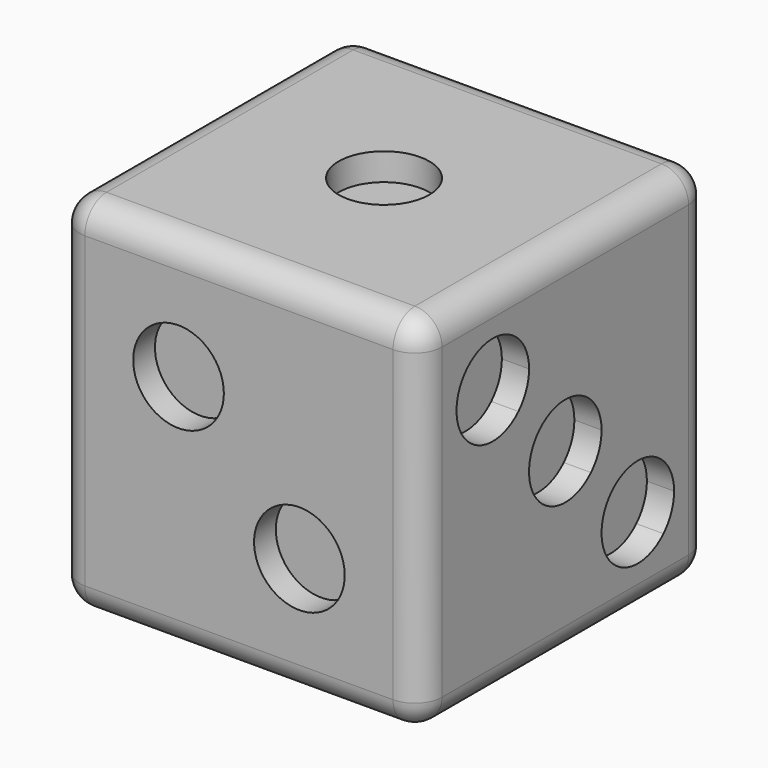
from build123d import *

# Parameters (mm, degrees)
F1_W      = 20
F1_H      = 20
F2_DEPTH  = 20
F3_R      = 2.5
F9_DEPTH  = 1.5
F10_DEPTH = 1.5
F11_DEPTH = 1.5
F12_DEPTH = 1.5
F13_DEPTH = 1.5
F14_DEPTH = 1.5
F15_R     = 1.5


with BuildPart() as f2:
    # F1 (on Top) → F2 (new body)
    with BuildSketch(Plane.XY):
        Rectangle(F1_W, F1_H)
    extrude(amount=F2_DEPTH)

    # F3 (on face) → F9 (cut)
    with BuildSketch(Plane.XY.offset(20)):
        Circle(F3_R)
    extrude(amount=-F9_DEPTH, mode=Mode.SUBTRACT)

    # F6 (on face) → F10 (cut)
    with BuildSketch(Plane.XZ.offset(10)):
        with BuildLine():
            ThreePointArc((-0.8333333333, 13.3333333333), (-2.3766247524, 15.6430321646), (-5.1011002863, 15.1011002863))
            Line((-5.1011002863, 15.1011002863), (-3.3333333333, 13.3333333333))
            Line((-3.3333333333, 13.3333333333), (-1.5655663804, 11.5655663804))
            ThreePointArc((-1.5655663804, 11.5655663804), (-1.0236345021, 12.3766247524), (-0.8333333333, 13.3333333333))
        make_face()
        with BuildLine():
            Line((-3.3333333333, 13.3333333333), (-5.1011002863, 15.1011002863))
            ThreePointArc((-5.1011002863, 15.1011002863), (-5.1011002863, 11.5655663804), (-1.5655663804, 11.5655663804))
            Line((-1.5655663804, 11.5655663804), (-3.3333333333, 13.3333333333))
        make_face()
        with BuildLine():
            Line((3.3333333333, 6.6666666667), (1.5655663804, 8.4344336196))
            ThreePointArc((1.5655663804, 8.4344336196), (1.5655663804, 4.8988997137), (5.1011002863, 4.8988997137))
            Line((5.1011002863, 4.8988997137), (3.3333333333, 6.6666666667))
        make_face()
        with BuildLine():
            ThreePointArc((5.8333333333, 6.6666666667), (4.2900419142, 8.9763654979), (1.5655663804, 8.4344336196))
            Line((1.5655663804, 8.4344336196), (3.3333333333, 6.6666666667))
            Line((3.3333333333, 6.6666666667), (5.1011002863, 4.8988997137))
            ThreePointArc((5.1011002863, 4.8988997137), (5.6430321646, 5.7099580858), (5.8333333333, 6.6666666667))
        make_face()
    extrude(amount=-F10_DEPTH, mode=Mode.SUBTRACT)

    # F8 (on face) → F11 (cut)
    with BuildSketch(Plane.YZ.offset(10)):
        with BuildLine():
            ThreePointArc((-2.5, 15), (-4.0432914191, 17.3096988313), (-6.767766953, 16.767766953))
            Line((-6.767766953, 16.767766953), (-5, 15))
            Line((-5, 15), (-3.232233047, 13.232233047))
            ThreePointArc((-3.232233047, 13.232233047), (-2.6903011687, 14.0432914191), (-2.5, 15))
        make_face()
        with BuildLine():
            Line((-5, 15), (-6.767766953, 16.767766953))
            ThreePointArc((-6.767766953, 16.767766953), (-6.767766953, 13.232233047), (-3.232233047, 13.232233047))
            Line((-3.232233047, 13.232233047), (-5, 15))
        make_face()
        with BuildLine():
            Line((0, 10), (-1.767766953, 11.767766953))
            ThreePointArc((-1.767766953, 11.767766953), (-1.767766953, 8.232233047), (1.767766953, 8.232233047))
            Line((1.767766953, 8.232233047), (0, 10))
        make_face()
        with BuildLine():
            ThreePointArc((2.5, 10), (0.9567085809, 12.3096988313), (-1.767766953, 11.767766953))
            Line((-1.767766953, 11.767766953), (0, 10))
            Line((0, 10), (1.767766953, 8.232233047))
            ThreePointArc((1.767766953, 8.232233047), (2.3096988313, 9.0432914191), (2.5, 10))
        make_face()
        with BuildLine():
            Line((5, 5), (6.767766953, 3.232233047))
            ThreePointArc((6.767766953, 3.232233047), (7.3096988313, 4.0432914191), (7.5, 5))
            ThreePointArc((7.5, 5), (5.9567085809, 7.3096988313), (3.232233047, 6.767766953))
            Line((3.232233047, 6.767766953), (5, 5))
        make_face()
        with BuildLine():
            ThreePointArc((3.232233047, 6.767766953), (3.232233047, 3.232233047), (6.767766953, 3.232233047))
            Line((6.767766953, 3.232233047), (5, 5))
            Line((5, 5), (3.232233047, 6.767766953))
        make_face()
    extrude(amount=-F11_DEPTH, mode=Mode.SUBTRACT)

    # F7 (on face) → F12 (cut)
    with BuildSketch(Plane(origin=(-10, 0, 0), x_dir=(0, -1, 0), z_dir=(-1, 0, 0))):
        with BuildLine():
            ThreePointArc((3, 4.5), (4.5432914191, 2.1903011687), (7.267766953, 2.732233047))
            Line((7.267766953, 2.732233047), (5.5, 4.5))
            Line((5.5, 4.5), (3, 4.5))
        make_face()
        with BuildLine():
            ThreePointArc((3.732233047, 6.267766953), (3.1903011687, 5.4567085809), (3, 4.5))
            Line((3, 4.5), (5.5, 4.5))
            Line((5.5, 4.5), (3.732233047, 6.267766953))
        make_face()
        with BuildLine():
            Line((3.732233047, 6.267766953), (5.5, 4.5))
            Line((5.5, 4.5), (5.5, 7))
            ThreePointArc((5.5, 7), (4.5432914191, 6.8096988313), (3.732233047, 6.267766953))
        make_face()
        with BuildLine():
            Line((5.5, 4.5), (7.267766953, 2.732233047))
            ThreePointArc((7.267766953, 2.732233047), (7.8096988313, 3.5432914191), (8, 4.5))
            ThreePointArc((8, 4.5), (7.267766953, 6.267766953), (5.5, 7))
            Line((5.5, 7), (5.5, 4.5))
        make_face()
        with BuildLine():
            ThreePointArc((-5.5, 7), (-7.8096988313, 5.4567085809), (-7.267766953, 2.732233047))
            Line((-7.267766953, 2.732233047), (-5.5, 4.5))
            Line((-5.5, 4.5), (-5.5, 7))
        make_face()
        with BuildLine():
            Line((-5.5, 4.5), (-7.267766953, 2.732233047))
            ThreePointArc((-7.267766953, 2.732233047), (-4.5432914191, 2.1903011687), (-3, 4.5))
            Line((-3, 4.5), (-5.5, 4.5))
        make_face()
        with BuildLine():
            Line((-3.732233047, 6.267766953), (-5.5, 4.5))
            Line((-5.5, 4.5), (-3, 4.5))
            ThreePointArc((-3, 4.5), (-3.1903011687, 5.4567085809), (-3.732233047, 6.267766953))
        make_face()
        with BuildLine():
            ThreePointArc((-3.732233047, 6.267766953), (-4.5432914191, 6.8096988313), (-5.5, 7))
            Line((-5.5, 7), (-5.5, 4.5))
            Line((-5.5, 4.5), (-3.732233047, 6.267766953))
        make_face()
        with BuildLine():
            Line((-3.732233047, 13.732233047), (-5.5, 15.5))
            Line((-5.5, 15.5), (-5.5, 13))
            ThreePointArc((-5.5, 13), (-4.5432914191, 13.1903011687), (-3.732233047, 13.732233047))
        make_face()
        with BuildLine():
            Line((-5.5, 15.5), (-7.267766953, 17.267766953))
            ThreePointArc((-7.267766953, 17.267766953), (-7.8096988313, 14.5432914191), (-5.5, 13))
            Line((-5.5, 13), (-5.5, 15.5))
        make_face()
        with BuildLine():
            ThreePointArc((-3, 15.5), (-4.5432914191, 17.8096988313), (-7.267766953, 17.267766953))
            Line((-7.267766953, 17.267766953), (-5.5, 15.5))
            Line((-5.5, 15.5), (-3, 15.5))
        make_face()
        with BuildLine():
            Line((-3, 15.5), (-5.5, 15.5))
            Line((-5.5, 15.5), (-3.732233047, 13.732233047))
            ThreePointArc((-3.732233047, 13.732233047), (-3.1903011687, 14.5432914191), (-3, 15.5))
        make_face()
        with BuildLine():
            Line((5.5, 13), (5.5, 15.5))
            Line((5.5, 15.5), (3.732233047, 13.732233047))
            ThreePointArc((3.732233047, 13.732233047), (4.5432914191, 13.1903011687), (5.5, 13))
        make_face()
        with BuildLine():
            ThreePointArc((8, 15.5), (7.8096988313, 16.4567085809), (7.267766953, 17.267766953))
            Line((7.267766953, 17.267766953), (5.5, 15.5))
            Line((5.5, 15.5), (5.5, 13))
            ThreePointArc((5.5, 13), (7.267766953, 13.732233047), (8, 15.5))
        make_face()
        with BuildLine():
            Line((5.5, 15.5), (3, 15.5))
            ThreePointArc((3, 15.5), (3.1903011687, 14.5432914191), (3.732233047, 13.732233047))
            Line((3.732233047, 13.732233047), (5.5, 15.5))
        make_face()
        with BuildLine():
            Line((5.5, 15.5), (7.267766953, 17.267766953))
            ThreePointArc((7.267766953, 17.267766953), (4.5432914191, 17.8096988313), (3, 15.5))
            Line((3, 15.5), (5.5, 15.5))
        make_face()
    extrude(amount=-F12_DEPTH, mode=Mode.SUBTRACT)

    # F5 (on face) → F13 (cut)
    with BuildSketch(Plane(origin=(0, 10, 0), x_dir=(-1, 0, 0), z_dir=(0, 1, 0))):
        with BuildLine():
            ThreePointArc((-5.5, 7), (-7.8096988313, 5.4567085809), (-7.267766953, 2.732233047))
            Line((-7.267766953, 2.732233047), (-5.5, 4.5))
            Line((-5.5, 4.5), (-5.5, 7))
        make_face()
        with BuildLine():
            Line((-5.5, 4.5), (-7.267766953, 2.732233047))
            ThreePointArc((-7.267766953, 2.732233047), (-4.5432914191, 2.1903011687), (-3, 4.5))
            Line((-3, 4.5), (-5.5, 4.5))
        make_face()
        with BuildLine():
            Line((-5.5, 4.5), (-3, 4.5))
            ThreePointArc((-3, 4.5), (-3.1903011687, 5.4567085809), (-3.732233047, 6.267766953))
            Line((-3.732233047, 6.267766953), (-5.5, 4.5))
        make_face()
        with BuildLine():
            Line((-5.5, 7), (-5.5, 4.5))
            Line((-5.5, 4.5), (-3.732233047, 6.267766953))
            ThreePointArc((-3.732233047, 6.267766953), (-4.5432914191, 6.8096988313), (-5.5, 7))
        make_face()
        with BuildLine():
            Line((1.767766953, 8.232233047), (0, 10))
            Line((0, 10), (-1.767766953, 8.232233047))
            ThreePointArc((-1.767766953, 8.232233047), (0, 7.5), (1.767766953, 8.232233047))
        make_face()
        with BuildLine():
            ThreePointArc((2.5, 10), (2.3096988313, 10.9567085809), (1.767766953, 11.767766953))
            Line((1.767766953, 11.767766953), (0, 10))
            Line((0, 10), (1.767766953, 8.232233047))
            ThreePointArc((1.767766953, 8.232233047), (2.3096988313, 9.0432914191), (2.5, 10))
        make_face()
        with BuildLine():
            Line((0, 10), (1.767766953, 11.767766953))
            ThreePointArc((1.767766953, 11.767766953), (0, 12.5), (-1.767766953, 11.767766953))
            Line((-1.767766953, 11.767766953), (0, 10))
        make_face()
        with BuildLine():
            Line((-1.767766953, 8.232233047), (0, 10))
            Line((0, 10), (-1.767766953, 11.767766953))
            ThreePointArc((-1.767766953, 11.767766953), (-2.5, 10), (-1.767766953, 8.232233047))
        make_face()
        with BuildLine():
            Line((3, 4.5), (5.5, 4.5))
            Line((5.5, 4.5), (3.732233047, 6.267766953))
            ThreePointArc((3.732233047, 6.267766953), (3.1903011687, 5.4567085809), (3, 4.5))
        make_face()
        with BuildLine():
            ThreePointArc((3, 4.5), (4.5432914191, 2.1903011687), (7.267766953, 2.732233047))
            Line((7.267766953, 2.732233047), (5.5, 4.5))
            Line((5.5, 4.5), (3, 4.5))
        make_face()
        with BuildLine():
            Line((5.5, 4.5), (7.267766953, 2.732233047))
            ThreePointArc((7.267766953, 2.732233047), (7.8096988313, 3.5432914191), (8, 4.5))
            ThreePointArc((8, 4.5), (7.267766953, 6.267766953), (5.5, 7))
            Line((5.5, 7), (5.5, 4.5))
        make_face()
        with BuildLine():
            Line((3.732233047, 6.267766953), (5.5, 4.5))
            Line((5.5, 4.5), (5.5, 7))
            ThreePointArc((5.5, 7), (4.5432914191, 6.8096988313), (3.732233047, 6.267766953))
        make_face()
        with BuildLine():
            Line((5.5, 13), (5.5, 15.5))
            Line((5.5, 15.5), (3.732233047, 13.732233047))
            ThreePointArc((3.732233047, 13.732233047), (4.5432914191, 13.1903011687), (5.5, 13))
        make_face()
        with BuildLine():
            ThreePointArc((8, 15.5), (7.8096988313, 16.4567085809), (7.267766953, 17.267766953))
            Line((7.267766953, 17.267766953), (5.5, 15.5))
            Line((5.5, 15.5), (5.5, 13))
            ThreePointArc((5.5, 13), (7.267766953, 13.732233047), (8, 15.5))
        make_face()
        with BuildLine():
            Line((3.732233047, 13.732233047), (5.5, 15.5))
            Line((5.5, 15.5), (3, 15.5))
            ThreePointArc((3, 15.5), (3.1903011687, 14.5432914191), (3.732233047, 13.732233047))
        make_face()
        with BuildLine():
            Line((5.5, 15.5), (7.267766953, 17.267766953))
            ThreePointArc((7.267766953, 17.267766953), (4.5432914191, 17.8096988313), (3, 15.5))
            Line((3, 15.5), (5.5, 15.5))
        make_face()
        with BuildLine():
            ThreePointArc((-3.732233047, 13.732233047), (-3.1903011687, 14.5432914191), (-3, 15.5))
            Line((-3, 15.5), (-5.5, 15.5))
            Line((-5.5, 15.5), (-3.732233047, 13.732233047))
        make_face()
        with BuildLine():
            Line((-3.732233047, 13.732233047), (-5.5, 15.5))
            Line((-5.5, 15.5), (-5.5, 13))
            ThreePointArc((-5.5, 13), (-4.5432914191, 13.1903011687), (-3.732233047, 13.732233047))
        make_face()
        with BuildLine():
            Line((-5.5, 15.5), (-7.267766953, 17.267766953))
            ThreePointArc((-7.267766953, 17.267766953), (-7.8096988313, 14.5432914191), (-5.5, 13))
            Line((-5.5, 13), (-5.5, 15.5))
        make_face()
        with BuildLine():
            ThreePointArc((-3, 15.5), (-4.5432914191, 17.8096988313), (-7.267766953, 17.267766953))
            Line((-7.267766953, 17.267766953), (-5.5, 15.5))
            Line((-5.5, 15.5), (-3, 15.5))
        make_face()
    extrude(amount=-F13_DEPTH, mode=Mode.SUBTRACT)

    # F4 (on face) → F14 (cut)
    with BuildSketch(Plane(origin=(0, 0, 0), x_dir=(1, 0, 0), z_dir=(0, 0, -1))):
        with BuildLine():
            Line((5.5, -5.5), (3.732233047, -3.732233047))
            ThreePointArc((3.732233047, -3.732233047), (3.732233047, -7.267766953), (7.267766953, -7.267766953))
            Line((7.267766953, -7.267766953), (5.5, -5.5))
        make_face()
        with BuildLine():
            ThreePointArc((8, -5.5), (7.267766953, -3.732233047), (5.5, -3))
            Line((5.5, -3), (5.5, -5.5))
            Line((5.5, -5.5), (7.267766953, -7.267766953))
            ThreePointArc((7.267766953, -7.267766953), (7.8096988313, -6.4567085809), (8, -5.5))
        make_face()
        with BuildLine():
            ThreePointArc((5.5, -3), (4.5432914191, -3.1903011687), (3.732233047, -3.732233047))
            Line((3.732233047, -3.732233047), (5.5, -5.5))
            Line((5.5, -5.5), (5.5, -3))
        make_face()
        with BuildLine():
            ThreePointArc((8, 0), (7.267766953, 1.767766953), (5.5, 2.5))
            Line((5.5, 2.5), (5.5, -2.5))
            ThreePointArc((5.5, -2.5), (7.267766953, -1.767766953), (8, 0))
        make_face()
        with BuildLine():
            Line((5.5, -2.5), (5.5, 2.5))
            ThreePointArc((5.5, 2.5), (3, 0), (5.5, -2.5))
        make_face()
        with BuildLine():
            ThreePointArc((8, 5.5), (7.8096988313, 6.4567085809), (7.267766953, 7.267766953))
            Line((7.267766953, 7.267766953), (5.5, 5.5))
            Line((5.5, 5.5), (5.5, 3))
            ThreePointArc((5.5, 3), (7.267766953, 3.732233047), (8, 5.5))
        make_face()
        with BuildLine():
            Line((5.5, 5.5), (3.732233047, 3.732233047))
            ThreePointArc((3.732233047, 3.732233047), (4.5432914191, 3.1903011687), (5.5, 3))
            Line((5.5, 3), (5.5, 5.5))
        make_face()
        with BuildLine():
            ThreePointArc((7.267766953, 7.267766953), (3.732233047, 7.267766953), (3.732233047, 3.732233047))
            Line((3.732233047, 3.732233047), (5.5, 5.5))
            Line((5.5, 5.5), (7.267766953, 7.267766953))
        make_face()
        with BuildLine():
            ThreePointArc((-3, -5.5), (-3.1903011687, -4.5432914191), (-3.732233047, -3.732233047))
            Line((-3.732233047, -3.732233047), (-5.5, -5.5))
            Line((-5.5, -5.5), (-7.267766953, -7.267766953))
            ThreePointArc((-7.267766953, -7.267766953), (-4.5432914191, -7.8096988313), (-3, -5.5))
        make_face()
        with BuildLine():
            ThreePointArc((-5.5, -3), (-7.8096988313, -4.5432914191), (-7.267766953, -7.267766953))
            Line((-7.267766953, -7.267766953), (-5.5, -5.5))
            Line((-5.5, -5.5), (-5.5, -3))
        make_face()
        with BuildLine():
            Line((-5.5, -5.5), (-3.732233047, -3.732233047))
            ThreePointArc((-3.732233047, -3.732233047), (-4.5432914191, -3.1903011687), (-5.5, -3))
            Line((-5.5, -3), (-5.5, -5.5))
        make_face()
        with BuildLine():
            ThreePointArc((-3, 0), (-3.732233047, 1.767766953), (-5.5, 2.5))
            Line((-5.5, 2.5), (-5.5, -2.5))
            ThreePointArc((-5.5, -2.5), (-3.732233047, -1.767766953), (-3, 0))
        make_face()
        with BuildLine():
            Line((-5.5, -2.5), (-5.5, 2.5))
            ThreePointArc((-5.5, 2.5), (-8, 0), (-5.5, -2.5))
        make_face()
        with BuildLine():
            ThreePointArc((-5.5, 3), (-4.5432914191, 3.1903011687), (-3.732233047, 3.732233047))
            Line((-3.732233047, 3.732233047), (-5.5, 5.5))
            Line((-5.5, 5.5), (-5.5, 3))
        make_face()
        with BuildLine():
            Line((-5.5, 5.5), (-7.267766953, 7.267766953))
            ThreePointArc((-7.267766953, 7.267766953), (-7.8096988313, 4.5432914191), (-5.5, 3))
            Line((-5.5, 3), (-5.5, 5.5))
        make_face()
        with BuildLine():
            ThreePointArc((-3.732233047, 3.732233047), (-3.1903011687, 4.5432914191), (-3, 5.5))
            ThreePointArc((-3, 5.5), (-4.5432914191, 7.8096988313), (-7.267766953, 7.267766953))
            Line((-7.267766953, 7.267766953), (-5.5, 5.5))
            Line((-5.5, 5.5), (-3.732233047, 3.732233047))
        make_face()
    extrude(amount=-F14_DEPTH, mode=Mode.SUBTRACT)

    # F15
    f15_edges = [f2.edges().sort_by_distance(p)[0] for p in [
        (0, 10, 0),
        (-10, 10, 10),
        (-10, 0, 0),
        (0, 10, 20),
        (-10, 0, 20),
        (10, 10, 10),
        (10, 0, 20),
        (10, -10, 10),
        (10, 0, 0),
        (0, -10, 0),
        (0, -10, 20),
        (-10, -10, 10),
    ]]
    fillet(f15_edges, radius=F15_R)


solid = f2.part
